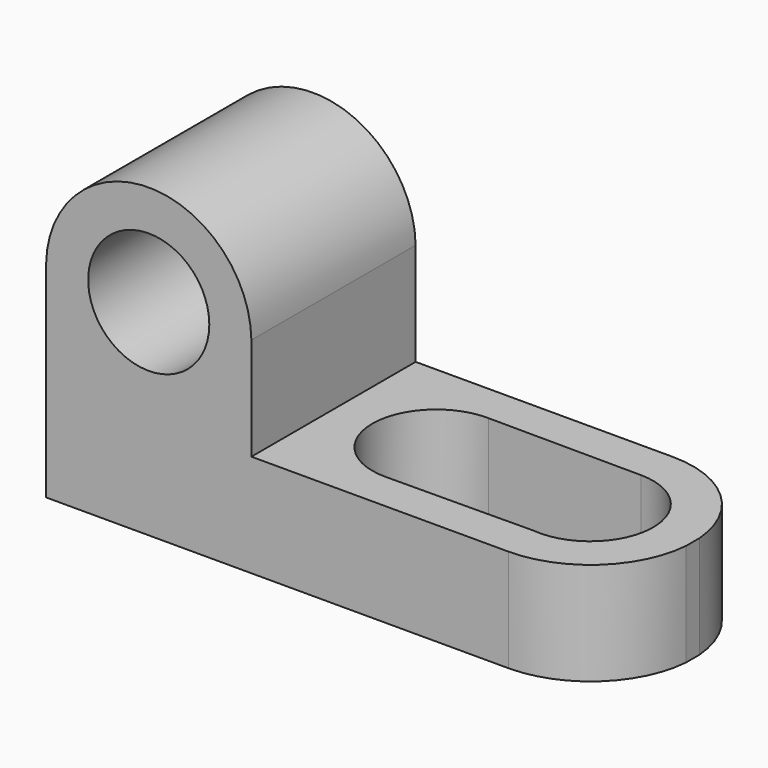
from build123d import *

# Parameters (mm, degrees)
F1_DEPTH  = 25.4
F2_R      = 7.491958629
F3_DEPTH  = 25.401
F5_DEPTH  = 25.401
F6_R      = 7.8989022762
F6_R_2    = 7.7951690208
F7_DEPTH  = 12.701
F9_DEPTH  = 12.701
F11_DEPTH = 12.701


with BuildPart() as f1:
    # F0 (on Front) → F1 (new body)
    with BuildSketch(Plane.XZ):
        Polygon((-53.5450525341, 38.1), (-78.9450525341, 38.1), (-78.9450525341, 0), (-9.0950525341, 0), (-9.0950525341, 12.7), (-53.5450525341, 12.7), align=None)
    extrude(amount=F1_DEPTH)

    # F2 (on face) → F3 (cut, through all)
    with BuildSketch(Plane.XZ.offset(25.4)):
        with Locations((-66.2450525341, 25.4)):
            Circle(F2_R)
    extrude(amount=-F3_DEPTH, mode=Mode.SUBTRACT)

    # F4 (on face) → F5 (cut, through all)
    with BuildSketch(Plane.XZ.offset(25.4)):
        with BuildLine():
            ThreePointArc((-78.9450525341, 25.4), (-66.2450525341, 37.895691554), (-53.5450525341, 25.4))
            Line((-53.5450525341, 25.4), (-53.5450525341, 38.1))
            Line((-53.5450525341, 38.1), (-78.9450525341, 38.1))
            Line((-78.9450525341, 38.1), (-78.9450525341, 25.4))
        make_face()
    extrude(amount=-F5_DEPTH, mode=Mode.SUBTRACT)

    # F6 (on face) → F7 (cut, through all)
    with BuildSketch(Plane.XY.offset(12.7)):
        with Locations((-40.8450525341, -12.7)):
            Circle(F6_R)
        with Locations((-21.7950525341, -12.7)):
            Circle(F6_R_2)
    extrude(amount=-F7_DEPTH, mode=Mode.SUBTRACT)

    # F8 (on face) → F9 (cut, through all)
    with BuildSketch(Plane.XY.offset(12.7)):
        with BuildLine():
            ThreePointArc((-32.9461502579, -12.7), (-35.204801221, -18.2299387243), (-40.6890545818, -20.5973616992))
            Line((-40.6890545818, -20.5973616992), (-22.5810122533, -20.4554450151))
            ThreePointArc((-22.5810122533, -20.4554450151), (-29.5791895595, -12.2854269284), (-21.7528127547, -4.9049454227))
            Line((-21.7528127547, -4.9049454227), (-40.7127795229, -4.8022053066))
            ThreePointArc((-40.7127795229, -4.8022053066), (-35.2131137579, -7.1615956459), (-32.9461502579, -12.7))
        make_face()
    extrude(amount=-F9_DEPTH, mode=Mode.SUBTRACT)

    # F10 (on face) → F11 (cut, through all)
    with BuildSketch(Plane.XY.offset(12.7)):
        with BuildLine():
            ThreePointArc((-21.7528127547, 0), (-13.1462388454, -3.3610018984), (-9.0950525341, -11.6650573949))
            Line((-9.0950525341, -11.6650573949), (-9.0950525341, 0))
            Line((-9.0950525341, 0), (-21.7528127547, 0))
        make_face()
        with BuildLine():
            ThreePointArc((-9.0950525341, -13.7349426051), (-13.1462388454, -22.0389981016), (-21.7528127547, -25.4))
            Line((-21.7528127547, -25.4), (-9.0950525341, -25.4))
            Line((-9.0950525341, -25.4), (-9.0950525341, -13.7349426051))
        make_face()
    extrude(amount=-F11_DEPTH, mode=Mode.SUBTRACT)


solid = f1.part
